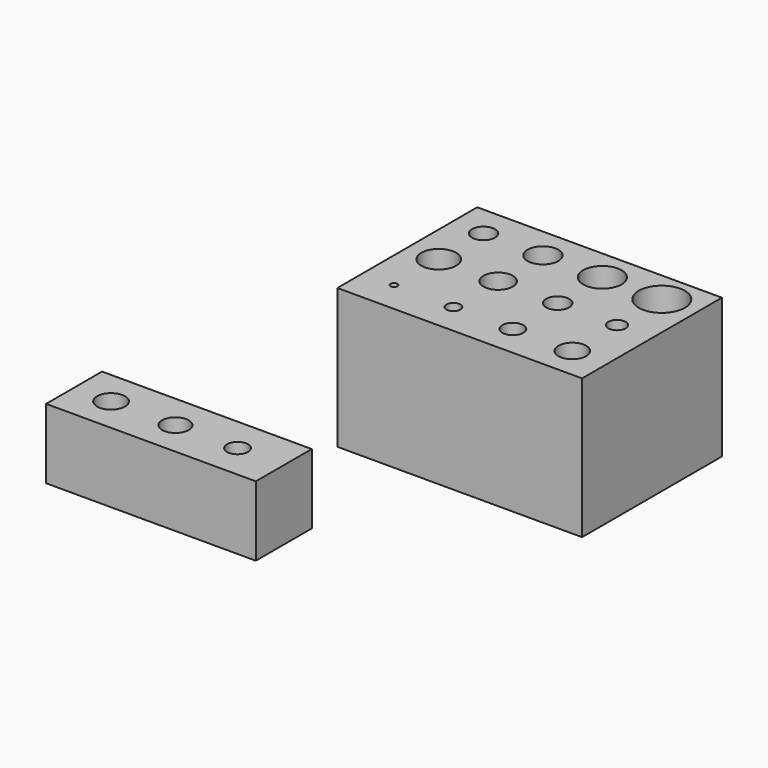
from build123d import *

# Parameters (mm, degrees)
F0_W            = 35
F0_H            = 25
F1_DEPTH        = 20
F3_D            = 3.3
F4_D            = 4.4
F5_D            = 5.5
F6_D            = 6.6
F7_D            = 5
F8_D            = 4.2
F9_D            = 3.3
F10_D           = 2.5
F11_D           = 1
F12_D           = 2
F13_D           = 3
F14_D           = 4
F15_W           = 30
F15_H           = 10
F16_DEPTH       = 10
F17_D           = 4
F17_CBORE_D     = 6.5
F17_CBORE_DEPTH = 4
F18_D           = 3.8
F18_CBORE_D     = 6.6
F18_CBORE_DEPTH = 4
F19_D           = 3
F19_CBORE_D     = 6
F19_CBORE_DEPTH = 3


with BuildPart() as f1:
    # F0 (on Top) → F1 (new body)
    with BuildSketch(Plane.XY):
        with Locations((-1.7773216218, 0)):
            Rectangle(F0_W, F0_H)
    extrude(amount=F1_DEPTH)

    # F3 (through all)
    with Locations(Plane.XY.offset(20)):
        with Locations((-14.7773216218, 8)):
            Hole(F3_D / 2)

    # F4 (through all)
    with Locations(Plane.XY.offset(20)):
        with Locations((-6.2773216218, 8)):
            Hole(F4_D / 2)

    # F5 (through all)
    with Locations(Plane.XY.offset(20)):
        with Locations((2.2226783782, 8)):
            Hole(F5_D / 2)

    # F6 (through all)
    with Locations(Plane.XY.offset(20)):
        with Locations((10.7226783782, 8)):
            Hole(F6_D / 2)

    # F7 (through all)
    with Locations(Plane.XY.offset(20)):
        with Locations((-14.7773216218, 0)):
            Hole(F7_D / 2)

    # F8 (through all)
    with Locations(Plane.XY.offset(20)):
        with Locations((-6.2773216218, 0)):
            Hole(F8_D / 2)

    # F9 (through all)
    with Locations(Plane.XY.offset(20)):
        with Locations((2.2226783782, 0)):
            Hole(F9_D / 2)

    # F10 (through all)
    with Locations(Plane.XY.offset(20)):
        with Locations((10.7226783782, 0)):
            Hole(F10_D / 2)

    # F11 (through all)
    with Locations(Plane.XY.offset(20)):
        with Locations((-14.7773216218, -8)):
            Hole(F11_D / 2)

    # F12 (through all)
    with Locations(Plane.XY.offset(20)):
        with Locations((-6.2773216218, -8)):
            Hole(F12_D / 2)

    # F13 (through all)
    with Locations(Plane.XY.offset(20)):
        with Locations((2.2226783782, -8)):
            Hole(F13_D / 2)

    # F14 (through all)
    with Locations(Plane.XY.offset(20)):
        with Locations((10.7226783782, -8)):
            Hole(F14_D / 2)


with BuildPart() as f16:
    # F15 (on Top) → F16 (new body)
    with BuildSketch(Plane.XY):
        with Locations((-24.1738305241, -34.7068560123)):
            Rectangle(F15_W, F15_H)
    extrude(amount=F16_DEPTH)

    # F17 (through all)
    with Locations(Plane(origin=(0, 0, 0), x_dir=(1, 0, 0), z_dir=(0, 0, -1))):
        with Locations((-33.8757373393, 34.7068560123)):
            CounterBoreHole(F17_D / 2, F17_CBORE_D / 2, F17_CBORE_DEPTH)

    # F18 (through all)
    with Locations(Plane(origin=(0, 0, 0), x_dir=(1, 0, 0), z_dir=(0, 0, -1))):
        with Locations((-24.6776435524, 34.7068560123)):
            CounterBoreHole(F18_D / 2, F18_CBORE_D / 2, F18_CBORE_DEPTH)

    # F19 (through all)
    with Locations(Plane(origin=(0, 0, 0), x_dir=(1, 0, 0), z_dir=(0, 0, -1))):
        with Locations((-15.7861541957, 34.7068560123)):
            CounterBoreHole(F19_D / 2, F19_CBORE_D / 2, F19_CBORE_DEPTH)


solid = Compound([f1.part, f16.part])
